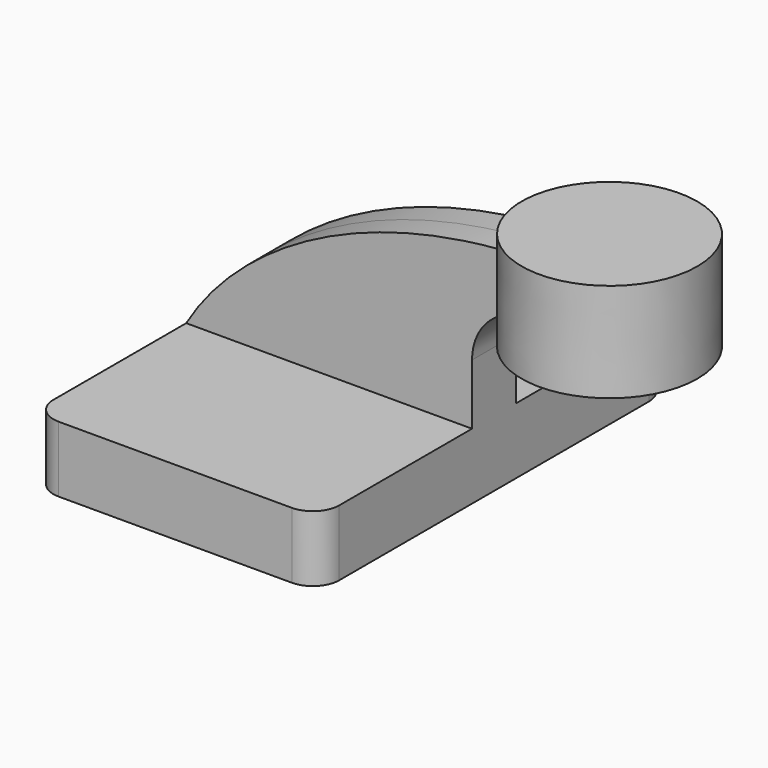
from build123d import *

# Parameters (mm, degrees)
F1_DEPTH = 63.5
F2_DEPTH = 7.9375
F4_R     = 7.62


with BuildPart() as f1:
    # F0 (on Front) → F1 (new body, symmetric)
    with BuildSketch(Plane.XZ):
        Polygon((-41.275, -9.525), (41.275, -9.525), (41.275, 9.525), (25.4, 9.525), (-41.275, 9.525), align=None)
    extrude(amount=F1_DEPTH, both=True)

    # F0 (on Front) → F2 (join, symmetric)
    with BuildSketch(Plane.XZ):
        with BuildLine():
            add(Edge.make_bspline(
                [(-41.275, 9.525), (-27.703339234, 32.6747409999), (3.8328881679, 53.8919653869), (49.2122638223, 57.7419443287)],
                knots=[0, 0, 0, 0, 102.5320371125, 102.5320371125, 102.5320371125, 102.5320371125], degree=3))
            Line((-41.275, 9.525), (25.4, 9.525))
            Line((25.4, 9.525), (25.4, 27.0002))
            ThreePointArc((25.4, 27.0002), (32.0493463866, 46.4429284139), (49.2122638223, 57.7419443287))
        make_face()
        with BuildLine():
            Line((25.4, 9.525), (41.275, 9.525))
            Line((41.275, 9.525), (41.275, 27.0002))
            ThreePointArc((41.275, 27.0002), (43.4017785364, 34.9375819102), (49.2122638223, 40.7482169251))
            Line((49.2122638223, 40.7482169251), (49.2122638223, 57.7419443287))
            ThreePointArc((49.2122638223, 57.7419443287), (32.0493463866, 46.4429284139), (25.4, 27.0002))
            Line((25.4, 27.0002), (25.4, 9.525))
        make_face()
        with BuildLine():
            ThreePointArc((57.15, 58.7502), (53.149242724, 58.4971274885), (49.2122638223, 57.7419443287))
            Line((49.2122638223, 57.7419443287), (49.2122638223, 40.7482169251))
            ThreePointArc((49.2122638223, 40.7482169251), (53.0411159475, 42.3342371997), (57.15, 42.8752))
            Line((57.15, 42.8752), (74.6156958322, 42.8752))
            Line((74.6156958322, 42.8752), (74.6271054395, 58.7502))
            Line((74.6271054395, 58.7502), (57.15, 58.7502))
        make_face()
    extrude(amount=F2_DEPTH, both=True)

    # F0 (on Front) → F3 (revolve)
    with BuildSketch(Plane.XZ):
        Polygon((100.0122638223, 66.675), (74.6328011155, 66.675), (74.6271054395, 58.7502), (74.6156958322, 42.8752), (74.6122638223, 38.1), (100.0122638223, 38.1), align=None)
    revolve(axis=Axis((74.6225324689, 0, 52.3875), (0.0007187152, 0, 0.9999997417)))

    # F4
    f4_edges = [f1.edges().sort_by_distance(p)[0] for p in [
        (41.275, -63.5, 0),
        (-41.275, -63.5, 0),
        (41.275, 63.5, 0),
        (-41.275, 63.5, 0),
    ]]
    fillet(f4_edges, radius=F4_R)


solid = f1.part
